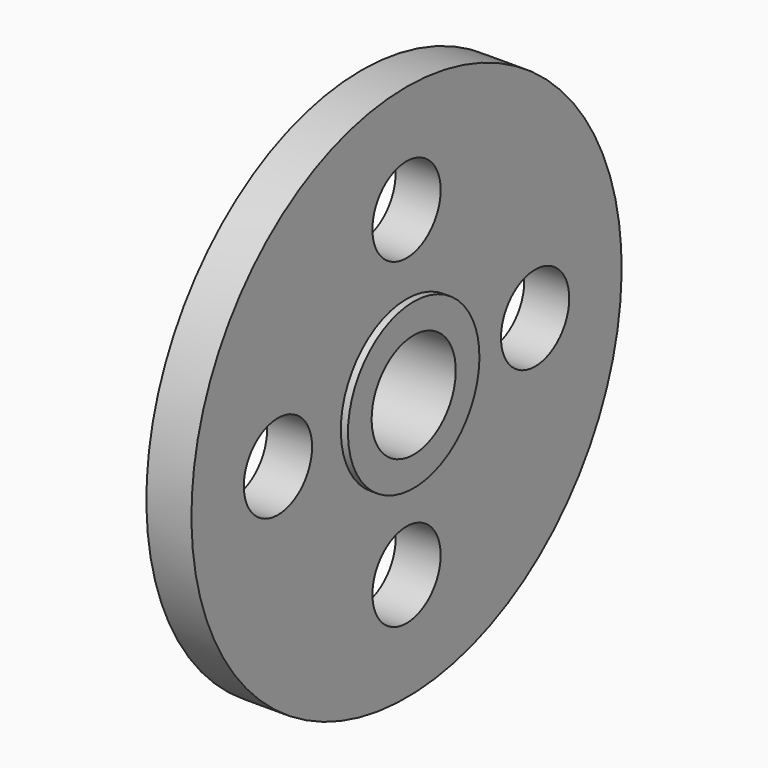
from build123d import *

# Parameters (mm, degrees)
F2_R     = 9.067781
F3_DEPTH = 14.352


with BuildPart() as f1:
    # F0 (on Front) → F1 (revolve)
    with BuildSketch(Plane.XZ):
        Polygon((0, 15.0876), (0, 11.176), (15.875, 11.176), (15.875, 17.4625), (14.351, 17.4625), (14.351, 57.15), (4.7752, 57.15), (4.7752, 15.0876), align=None)
    revolve(axis=Axis((1.733171, 0, 0), (1, 0, 0)))

    # F2 (on face) → F3 (cut, through all)
    with BuildSketch(Plane.YZ.offset(14.351)):
        with Locations((-34.163, 0)):
            Circle(F2_R)
        with Locations((0, -34.163)):
            Circle(F2_R)
        with Locations((34.163, 0)):
            Circle(F2_R)
        with Locations((0, 34.163)):
            Circle(F2_R)
    extrude(amount=-F3_DEPTH, mode=Mode.SUBTRACT)


solid = f1.part
